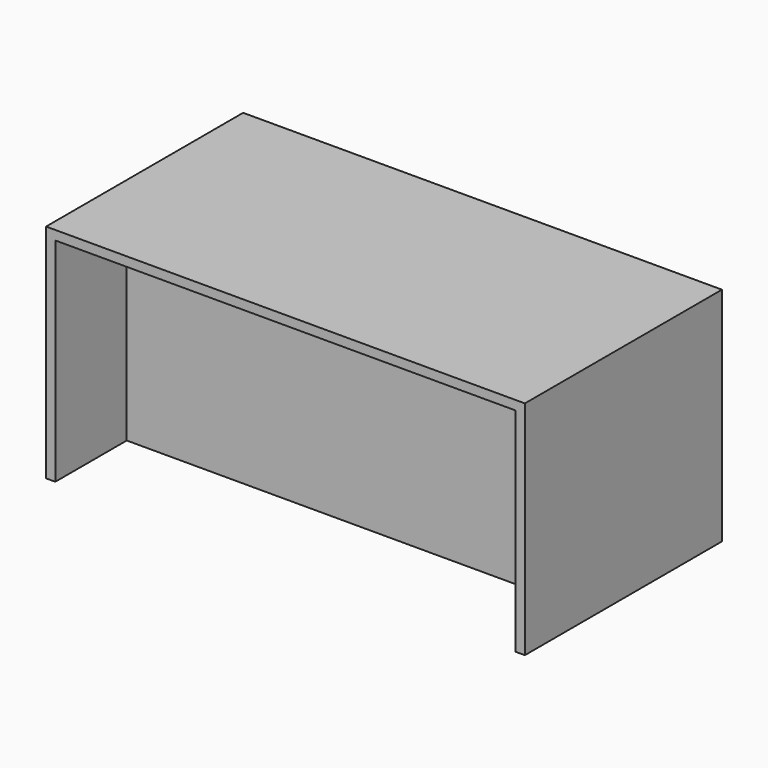
from build123d import *

# Parameters (mm, degrees)
F0_W     = 38.1
F0_H     = 1016
F0_W_2   = 1898.65
F1_DEPTH = 38.1
F2_DEPTH = 876.3
F4_W     = 1898.65
F4_H     = 876.3
F5_DEPTH = 12.7


with BuildPart() as f1:
    # F0 (on Top) → F1 (new body)
    with BuildSketch(Plane.XY):
        with Locations((-968.375, 0)):
            Rectangle(F0_W, F0_H)
        Rectangle(F0_W_2, F0_H)
        with Locations((968.375, 0)):
            Rectangle(F0_W, F0_H)
    extrude(amount=F1_DEPTH)

    # F0 (on Top) → F2 (join)
    with BuildSketch(Plane.XY):
        with Locations((-968.375, 0)):
            Rectangle(F0_W, F0_H)
        with Locations((968.375, 0)):
            Rectangle(F0_W, F0_H)
    extrude(amount=-F2_DEPTH)


with BuildPart() as f5:
    # F4 (on offset) → F5 (new body)
    with BuildSketch(Plane.XZ.offset(127)):
        with Locations((0, -438.15)):
            Rectangle(F4_W, F4_H)
    extrude(amount=F5_DEPTH)


solid = Compound([f1.part, f5.part])
